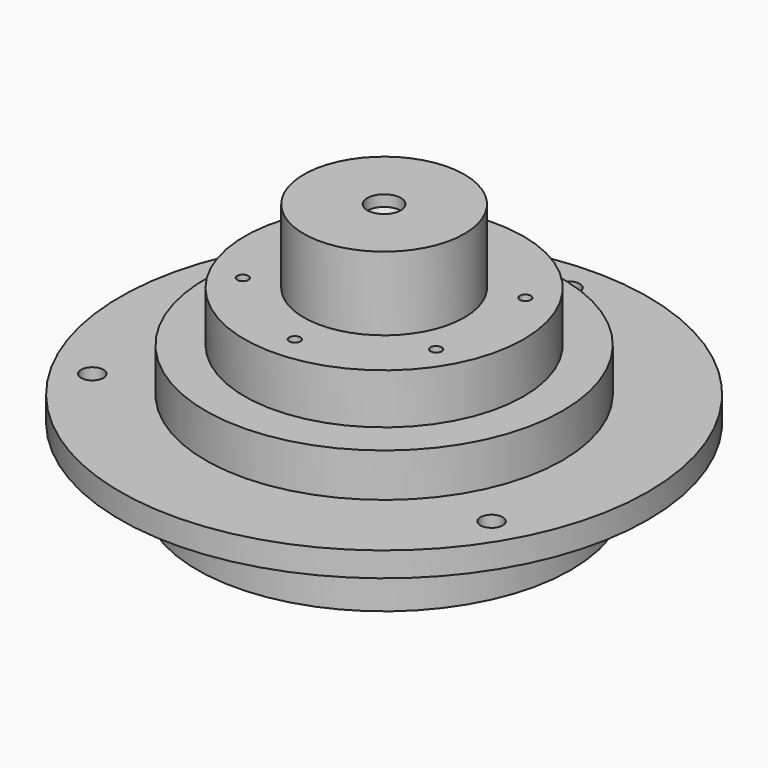
from build123d import *

# Parameters (mm, degrees)
F0_R      = 16.75
F1_DEPTH  = 6.2
F2_R      = 23.65
F3_DEPTH  = 2.2
F5_D      = 2
F6_R      = 16
F7_DEPTH  = 3.9
F8_R      = 12.5
F9_DEPTH  = 4.5
F11_D     = 1
F11_DEPTH = 4
F11_TIP   = 0.3004303095
F12_R     = 7.2
F13_DEPTH = 6.6
F15_D     = 3
F15_DEPTH = 1
F15_TIP   = 0.9012909285


with BuildPart() as f1:
    # F0 (on Top) → F1 (new body)
    with BuildSketch(Plane.XY):
        Circle(F0_R)
    extrude(amount=F1_DEPTH)

    # F2 (on face) → F3 (join)
    with BuildSketch(Plane.XY.offset(6.2)):
        Circle(F2_R)
    extrude(amount=F3_DEPTH)

    # F5 (through all)
    with Locations(Plane.XY.offset(8.4)):
        with Locations((0, 20.65), (17.8834245881, -10.325), (-17.8834245881, -10.325)):
            Hole(F5_D / 2)

    # F6 (on face) → F7 (join)
    with BuildSketch(Plane.XY.offset(8.4)):
        Circle(F6_R)
    extrude(amount=F7_DEPTH)

    # F8 (on face) → F9 (join)
    with BuildSketch(Plane.XY.offset(12.3)):
        Circle(F8_R)
    extrude(amount=F9_DEPTH)

    # F11
    with Locations(Plane.XY.offset(16.8)):
        with Locations((-8.6602540378, 5), (0, 10), (8.6602540378, 5), (8.6602540378, -5), (0, -10), (-8.6602540378, -5)):
            Hole(F11_D / 2, depth=F11_DEPTH)
            with Locations((0, 0, -(F11_DEPTH + F11_TIP / 2))):  # 118° drill point
                Cone(0, F11_D / 2, F11_TIP, mode=Mode.SUBTRACT)

    # F12 (on face) → F13 (join)
    with BuildSketch(Plane.XY.offset(16.8)):
        Circle(F12_R)
    extrude(amount=F13_DEPTH)

    # F15
    with Locations(Plane.XY.offset(23.4)):
        with Locations((0, 0)):
            Hole(F15_D / 2, depth=F15_DEPTH)
            with Locations((0, 0, -(F15_DEPTH + F15_TIP / 2))):  # 118° drill point
                Cone(0, F15_D / 2, F15_TIP, mode=Mode.SUBTRACT)


solid = f1.part
